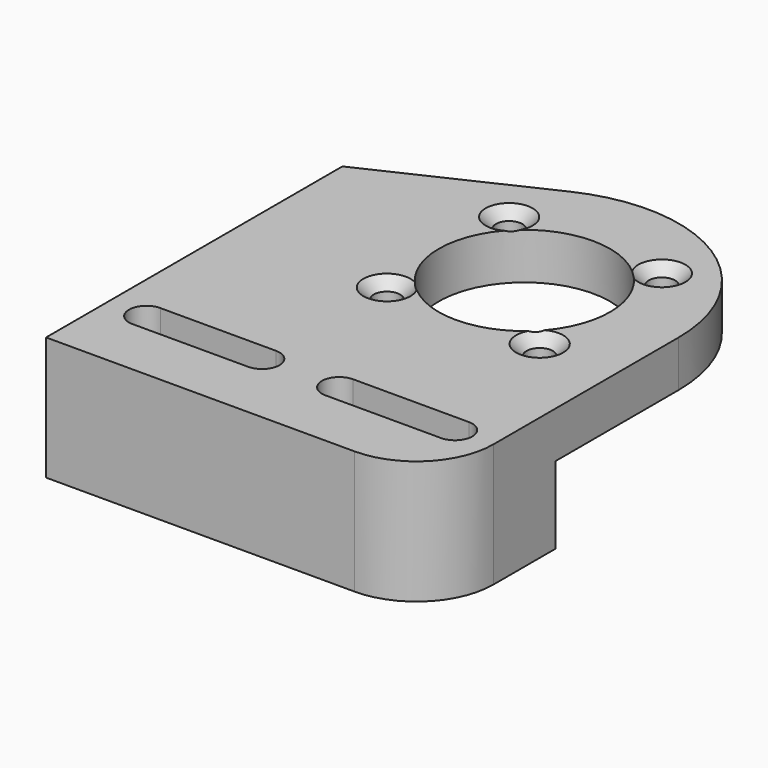
from build123d import *

# Parameters (mm, degrees)
SKETCH030_R         = 11.1
SKETCH030_R_2       = 1.65
PAD018_DEPTH        = 6
PAD021_DEPTH        = 10
SKETCH032_R         = 5
POCKET013_DEPTH     = 2
HOLE004_D           = 3.4
HOLE004_CSINK_D     = 6.1
HOLE004_CSINK_ANGLE = 90


with BuildPart() as part:
    # Sketch030 → Pad018 (new body)
    with BuildSketch(Plane.XY):
        with BuildLine():
            Line((-30, -10), (-30, 10))
            Line((-30, 10), (-30, 38))
            Line((-30, 38), (-8.506442, 48.100841))
            ThreePointArc((20, 30), (10.720801, 46.883851), (-8.506442, 48.100841))
            Line((20, 30), (20, 0))
            ThreePointArc((10, -10), (17.071068, -7.071068), (20, 0))
            Line((10, -10), (-30, -10))
        make_face()
        with Locations((0, 30)):
            Circle(SKETCH030_R, mode=Mode.SUBTRACT)
        with Locations((-9.899495, 39.899495)):
            Circle(SKETCH030_R_2, mode=Mode.SUBTRACT)
        with Locations((9.899495, 39.899495)):
            Circle(SKETCH030_R_2, mode=Mode.SUBTRACT)
        with Locations((9.899495, 20.100505)):
            Circle(SKETCH030_R_2, mode=Mode.SUBTRACT)
        with Locations((-9.899495, 20.100505)):
            Circle(SKETCH030_R_2, mode=Mode.SUBTRACT)
        with BuildLine():
            ThreePointArc((-25, 2.25), (-27.25, 0), (-25, -2.25))
            Line((-25, -2.25), (-10, -2.25))
            ThreePointArc((-10, -2.25), (-7.75, 0), (-10, 2.25))
            Line((-25, 2.25), (-10, 2.25))
        make_face(mode=Mode.SUBTRACT)
        with BuildLine():
            ThreePointArc((0, 2.25), (-2.25, 0), (0, -2.25))
            Line((0, -2.25), (15, -2.25))
            ThreePointArc((15, -2.25), (17.25, 0), (15, 2.25))
            Line((0, 2.25), (15, 2.25))
        make_face(mode=Mode.SUBTRACT)
    extrude(amount=PAD018_DEPTH)

    # Sketch036 → Pad021 (join)
    with BuildSketch(Plane.XY):
        with BuildLine():
            Line((20, 10), (20, 0))
            ThreePointArc((10, -10), (17.071068, -7.071068), (20, 0))
            Line((10, -10), (-30, -10))
            Line((-30, -10), (-30, 10))
            Line((-30, 38), (-30, 10))
            Line((-20, 38), (-30, 38))
            Line((-20, 10), (-20, 38))
            Line((-20, 10), (20, 10))
        make_face()
        with BuildLine():
            ThreePointArc((-25, 2.25), (-27.25, 0), (-25, -2.25))
            Line((-25, -2.25), (-10, -2.25))
            ThreePointArc((-10, -2.25), (-7.75, 0), (-10, 2.25))
            Line((-25, 2.25), (-10, 2.25))
        make_face(mode=Mode.SUBTRACT)
        with BuildLine():
            ThreePointArc((0, 2.25), (-2.25, 0), (0, -2.25))
            Line((0, -2.25), (15, -2.25))
            ThreePointArc((15, -2.25), (17.25, 0), (15, 2.25))
            Line((0, 2.25), (15, 2.25))
        make_face(mode=Mode.SUBTRACT)
    extrude(amount=-PAD021_DEPTH)

    # Sketch032 → Pocket013 (cut)
    with BuildSketch(Plane.YZ.offset(-30)):
        with Locations((0, -3)):
            Circle(SKETCH032_R)
        with Locations((30, -3)):
            Circle(SKETCH032_R)
    extrude(amount=POCKET013_DEPTH, mode=Mode.SUBTRACT)

    # Hole004 (through all)
    with Locations(Plane.XY.offset(6)):
        with Locations((9.899495, 39.899495), (-9.899495, 39.899495), (-9.899495, 20.100505), (9.899495, 20.100505)):
            CounterSinkHole(HOLE004_D / 2, HOLE004_CSINK_D / 2, counter_sink_angle=HOLE004_CSINK_ANGLE)


solid = part.part
